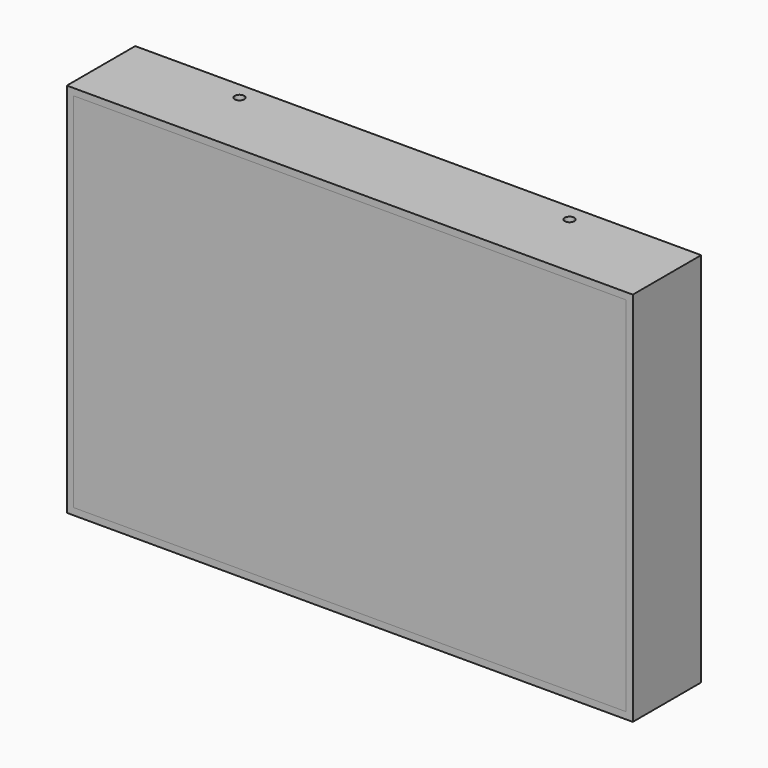
from build123d import *

# Parameters (mm, degrees)
F1_W     = 165.5
F1_H     = 110
F1_W_2   = 161.5
F1_H_2   = 106
F2_DEPTH = 3
F3_W     = 165.5
F3_H     = 110
F3_W_2   = 161.5
F3_H_2   = 100
F4_DEPTH = 22
F5_R     = 1.4
F6_DEPTH = 110.001
F7_W     = 161.5
F7_H     = 106
F8_DEPTH = 3


with BuildPart() as f2:
    # F1 (on Front) → F2 (new body)
    with BuildSketch(Plane.XZ):
        with Locations((-1, -2.25)):
            Rectangle(F1_W, F1_H)
        with Locations((-1, -2.25)):
            Rectangle(F1_W_2, F1_H_2, mode=Mode.SUBTRACT)
    extrude(amount=F2_DEPTH)

    # F3 (on Front) → F4 (join)
    with BuildSketch(Plane.XZ):
        with Locations((-1, -2.25)):
            Rectangle(F3_W, F3_H)
        with Locations((-1, -2.25)):
            Rectangle(F3_W_2, F3_H_2, mode=Mode.SUBTRACT)
    extrude(amount=-F4_DEPTH)

    # F5 (on face) → F6 (cut, through all)
    with BuildSketch(Plane(origin=(0, 0, -57.25), x_dir=(1, 0, 0), z_dir=(0, 0, -1))):
        with Locations((-49.25, -17)):
            Circle(F5_R)
        with Locations((47.25, -17)):
            Circle(F5_R)
    extrude(amount=-F6_DEPTH, mode=Mode.SUBTRACT)


with BuildPart() as f8:
    # F7 (on Front) → F8 (new body)
    with BuildSketch(Plane.XZ):
        with Locations((-1, -2.25)):
            Rectangle(F7_W, F7_H)
    extrude(amount=F8_DEPTH)


solid = Compound([f2.part, f8.part])
